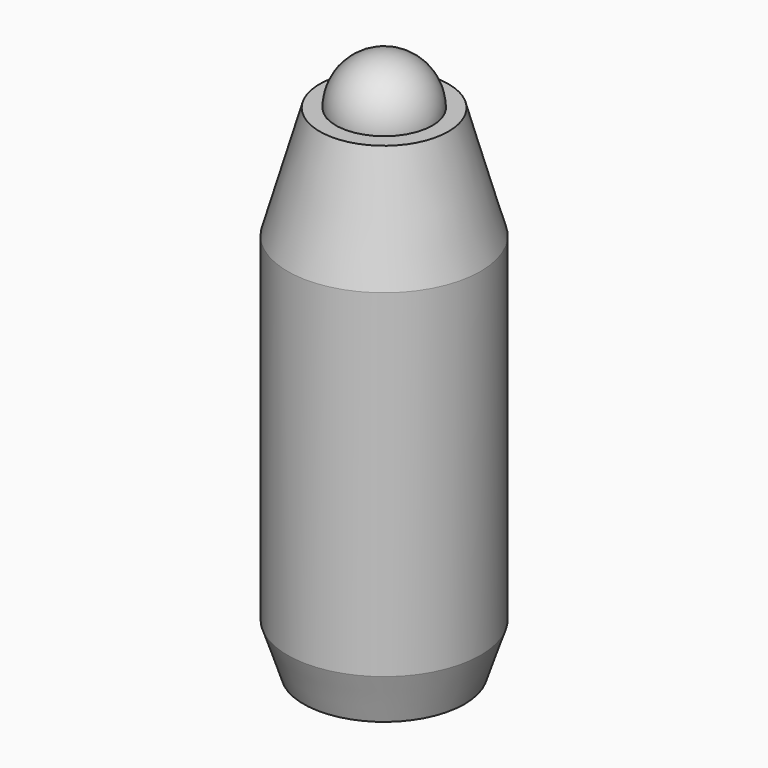
from build123d import *


with BuildPart() as f1:
    # F0 (on Front) → F1 (revolve)
    with BuildSketch(Plane.XZ):
        Polygon((0, 17.046287), (0, -13.953713), (5, -13.953713), (6, -10.953713), (6, 10.046287), (4, 17.046287), align=None)
    revolve(axis=Axis((0, 0, 1.546287), (0, 0, 1)))


with BuildPart() as f3:
    # F2 (on face) → F3 (revolve)
    with BuildSketch(Plane.XY.offset(17.046287)):
        with BuildLine():
            Line((-3, 0), (3, 0))
            ThreePointArc((3, 0), (0, 3), (-3, 0))
        make_face()
    revolve(axis=Axis((0, 0, 17.046287), (1, 0, 0)))


solid = Compound([f1.part, f3.part])
